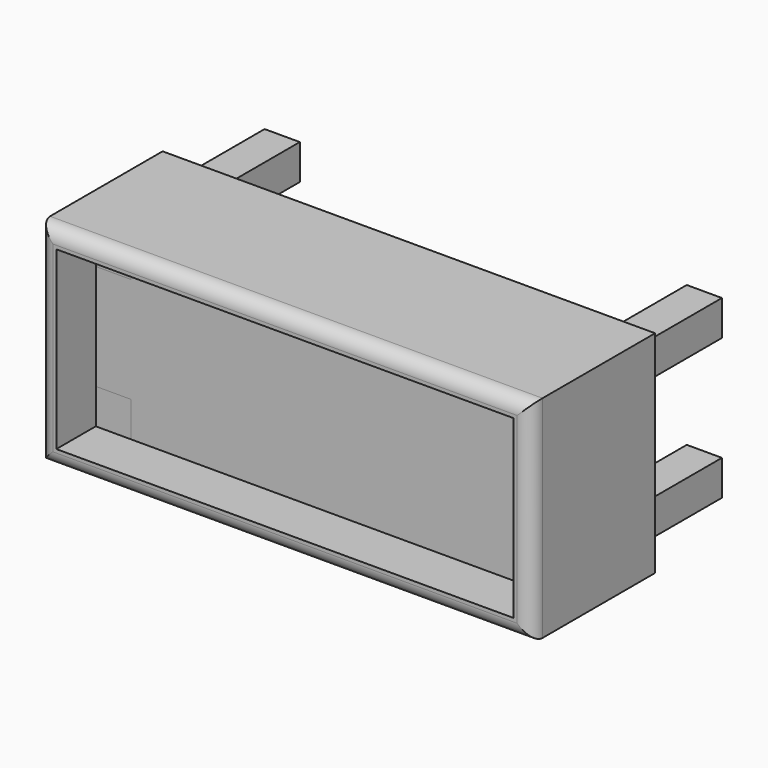
from build123d import *

# Parameters (mm, degrees)
F0_W     = 139.7
F0_H     = 6.35
F0_W_2   = 6.35
F0_H_2   = 38.1
F1_DEPTH = 55.88
F2_DEPTH = 38.1
F0_W_3   = 12.7
F0_H_3   = 12.7
F3_DEPTH = 38.1
F4_R     = 5.08


with BuildPart() as f1:
    # F0 (on Front) → F1 (new body)
    with BuildSketch(Plane.XZ):
        Polygon((-69.85, 31.75), (-69.85, 38.1), (-88.9, 38.1), (-88.9, 19.05), (-82.55, 19.05), (-82.55, 31.75), align=None)
        with Locations((0, 34.925)):
            Rectangle(F0_W, F0_H)
        Polygon((88.9, 19.05), (88.9, 38.1), (69.85, 38.1), (69.85, 31.75), (82.55, 31.75), (82.55, 19.05), align=None)
        with Locations((85.725, 0)):
            Rectangle(F0_W_2, F0_H_2)
        Polygon((88.9, -38.1), (88.9, -19.05), (82.55, -19.05), (82.55, -31.75), (69.85, -31.75), (69.85, -38.1), align=None)
        with Locations((0, -34.925)):
            Rectangle(F0_W, F0_H)
        Polygon((-82.55, -19.05), (-88.9, -19.05), (-88.9, -38.1), (-69.85, -38.1), (-69.85, -31.75), (-82.55, -31.75), align=None)
        with Locations((-85.725, 0)):
            Rectangle(F0_W_2, F0_H_2)
    extrude(amount=F1_DEPTH)

    # F0 (on Front) → F2 (join)
    with BuildSketch(Plane.XZ):
        Polygon((69.85, 19.05), (69.85, 31.75), (-69.85, 31.75), (-69.85, 19.05), (-82.55, 19.05), (-82.55, -19.05), (-69.85, -19.05), (-69.85, -31.75), (69.85, -31.75), (69.85, -19.05), (82.55, -19.05), (82.55, 19.05), align=None)
    extrude(amount=F2_DEPTH)

    # F4
    f4_edges = [f1.edges().sort_by_distance(p)[0] for p in [
        (-88.9, -55.88, 0),
        (0, -55.88, 38.1),
        (0, -55.88, -38.1),
        (88.9, -55.88, 0),
    ]]
    fillet(f4_edges, radius=F4_R)


with BuildPart() as f3:
    # F0 (on Front) → F3 (new body, symmetric)
    with BuildSketch(Plane.XZ):
        with Locations((-76.2, 25.4)):
            Rectangle(F0_W_3, F0_H_3)
    extrude(amount=F3_DEPTH, both=True)


with BuildPart() as f3b:
    # F0 (on Front) → F3, piece 2 (new body, symmetric)
    with BuildSketch(Plane.XZ):
        with Locations((-76.2, -25.4)):
            Rectangle(F0_W_3, F0_H_3)
    extrude(amount=F3_DEPTH, both=True)


with BuildPart() as f3c:
    # F0 (on Front) → F3, piece 3 (new body, symmetric)
    with BuildSketch(Plane.XZ):
        with Locations((76.2, -25.4)):
            Rectangle(F0_W_3, F0_H_3)
    extrude(amount=F3_DEPTH, both=True)


with BuildPart() as f3d:
    # F0 (on Front) → F3, piece 4 (new body, symmetric)
    with BuildSketch(Plane.XZ):
        with Locations((76.2, 25.4)):
            Rectangle(F0_W_3, F0_H_3)
    extrude(amount=F3_DEPTH, both=True)


solid = Compound([f1.part, f3.part, f3b.part, f3c.part, f3d.part])
